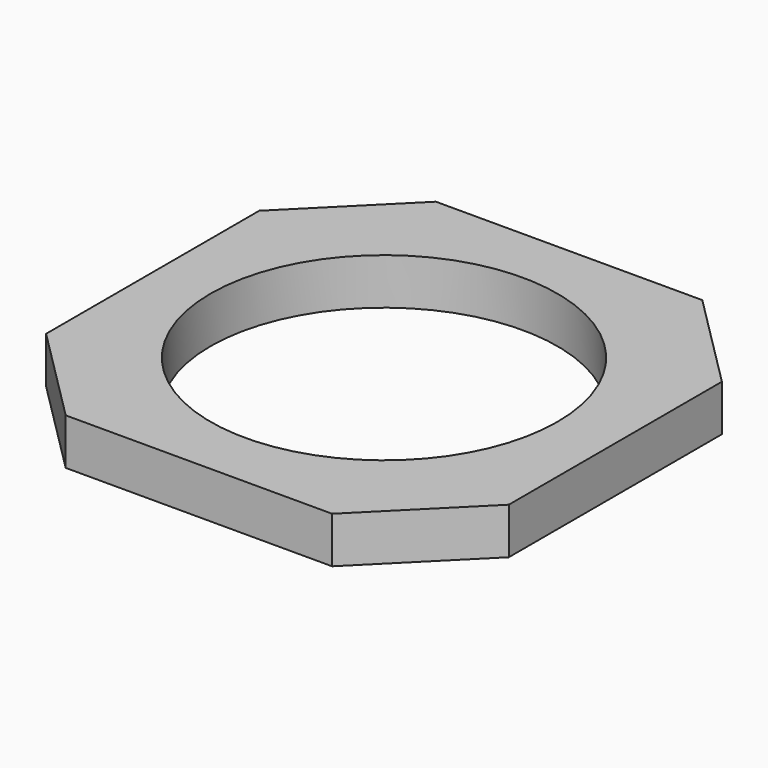
from build123d import *

# Parameters (mm, degrees)
F0_W     = 40
F0_H     = 40
F1_DEPTH = 4
F3_DEPTH = 25
F4_R     = 15
F5_DEPTH = 25


with BuildPart() as f1:
    # F0 (on Top) → F1 (new body)
    with BuildSketch(Plane.XY):
        with Locations((20, 20)):
            Rectangle(F0_W, F0_H)
    extrude(amount=F1_DEPTH)

    # F2 (on face) → F3 (cut)
    with BuildSketch(Plane.XY.offset(4)):
        Polygon((0, 40), (0, 31.514719), (8.485281, 40), align=None)
        Polygon((40, 40), (31.514719, 40), (40, 31.514719), align=None)
        Polygon((40, 8.485281), (31.514719, 0), (40, 0), align=None)
        Polygon((8.485281, 0), (0, 8.485281), (0, 0), align=None)
    extrude(amount=-F3_DEPTH, mode=Mode.SUBTRACT)

    # F4 (on face) → F5 (cut)
    with BuildSketch(Plane.XY.offset(4)):
        with Locations((20, 20)):
            Circle(F4_R)
    extrude(amount=-F5_DEPTH, mode=Mode.SUBTRACT)


solid = f1.part
